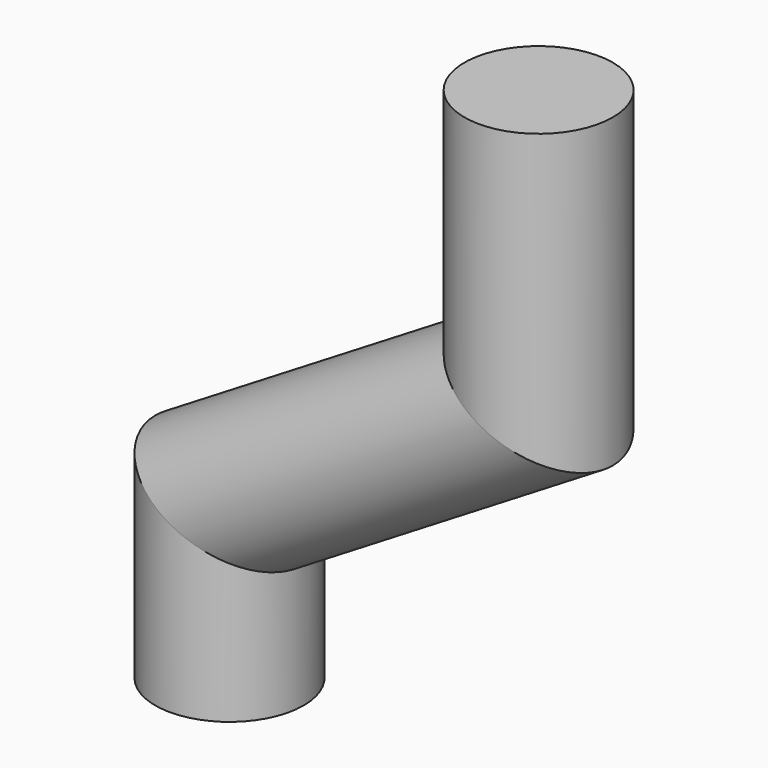
from build123d import *

# Parameters (mm, degrees)
F1_R = 4.572


with BuildPart() as f2:
    # F2: sweep along a path in F0
    with BuildLine(Plane.XZ) as f2_path:
        Line((-19.05, 0), (-19.05, 13.8140366236))
        Line((-19.05, 13.8140366236), (0, 25.4))
        Line((0, 25.4), (0, 38.1))
    # F1 (on Top) → F2 (sweep)
    with BuildSketch(Plane.XY):
        with Locations((-12.6112857834, 0)):
            Circle(F1_R)
    sweep(path=f2_path.line, transition=Transition.RIGHT)


solid = f2.part
